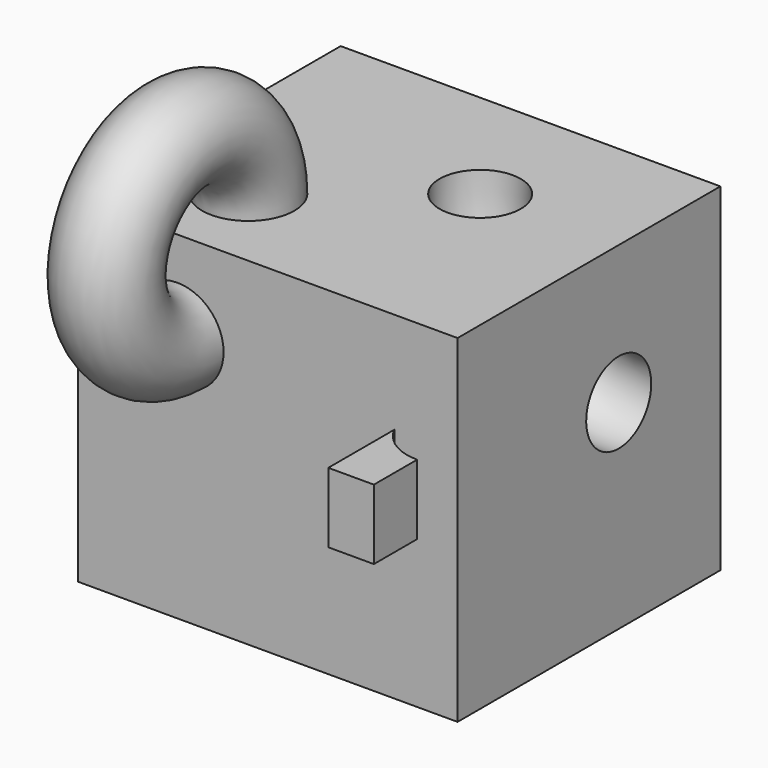
from build123d import *

# Parameters (mm, degrees)
F0_W      = 58.7195754051
F0_H      = 52.2568076849
F1_DEPTH  = 50.8
F2_R      = 7.1335833388
F4_W      = 9.8321177065
F4_H      = 10.8174271882
F6_R      = 6.2838171935
F9_W      = 7.0489501051
F9_H      = 16.1772435407
F10_DEPTH = 12.7


with BuildPart() as f1:
    # F0 (on Front) → F1 (new body)
    with BuildSketch(Plane.XZ):
        with Locations((29.3597877026, 36.2514294684)):
            Rectangle(F0_W, F0_H)
    extrude(amount=F1_DEPTH)

    # F2 (on face) → F3 (revolve)
    with BuildSketch(Plane.XZ.offset(50.8)):
        with Locations((15.4005596414, 48.6906468868)):
            Circle(F2_R)
    revolve(axis=Axis((29.3597877026, -50.8, 62.3798333108), (1, 0, 0)))


with BuildPart() as f5:
    # F4 (on face) → F5 (revolve)
    with BuildSketch(Plane.XZ.offset(50.8)):
        with Locations((45.989362523, 43.5920413584)):
            Rectangle(F4_W, F4_H)
    revolve(axis=Axis((58.7195754051, -50.8, 36.2514294684), (0, 0, -1)))


with BuildPart() as f7:
    # F6 (on face) → F7 (revolve)
    with BuildSketch(Plane.XY.offset(62.3798333108)):
        with Locations((37.2937507927, -19.6551214904)):
            Circle(F6_R)
    revolve(axis=Axis((58.7195754051, -25.4, 62.3798333108), (0, 1, 0)))


with BuildPart() as f1_1:
    add(f1.part)

    # F8: cut F7
    add(f7.part, mode=Mode.SUBTRACT)


with BuildPart() as f10:
    # F9 (on face) → F10 (new body, symmetric)
    with BuildSketch(Plane.XY.offset(49.0007549524)):
        with Locations((55.1951003526, -58.8886217704)):
            Rectangle(F9_W, F9_H)
    extrude(amount=F10_DEPTH, both=True)

    # F11: intersect F5
    add(f5.part, mode=Mode.INTERSECT)


solid = Compound([f1_1.part, f10.part])
